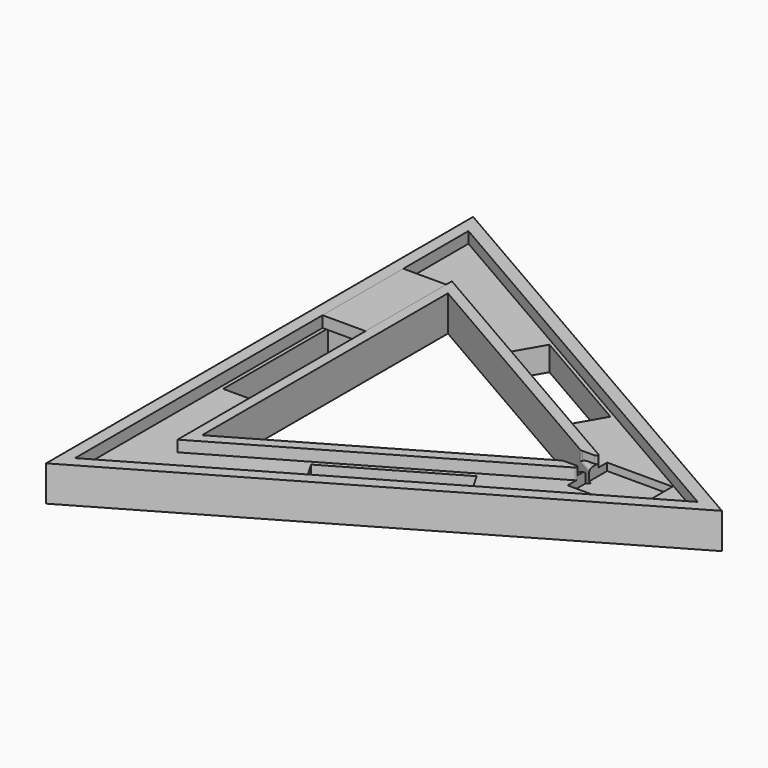
from build123d import *

# Parameters (mm, degrees)
BOX005_W               = 23
BOX005_H               = 54
BOX005_DEPTH           = 6
PRISM003_DEPTH         = 6
PRISM002_DEPTH         = 6
BOX004_W               = 10
BOX004_H               = 12
BOX004_DEPTH           = 4
BOX003_W               = 35
BOX003_H               = 26.5
BOX003_DEPTH           = 10
BOX002_W               = 70
BOX002_H               = 19
BOX002_DEPTH           = 19
BOX002_PLACEMENT_ANGLE = 30
BOX001_W               = 70
BOX001_H               = 19
BOX001_DEPTH           = 19
BOX001_PLACEMENT_ANGLE = 90
BOX_W                  = 70
BOX_H                  = 19
BOX_DEPTH              = 19
BOX_PLACEMENT_ANGLE    = 30
PRISM001_DEPTH         = 19
PRISM_DEPTH            = 19
FILLET_R               = 0.8
FILLET001_R            = 4
FILLET002_R            = 2


with BuildPart() as box005:
    # Box005 → Box005 (new body)
    with BuildSketch(Plane(origin=(-76, 34, 13), x_dir=(1, 0, 0), z_dir=(0, 0, 1))):
        with Locations((11.5, 27)):
            Rectangle(BOX005_W, BOX005_H)
    extrude(amount=BOX005_DEPTH)


with BuildPart() as prism003:
    # Prism003 → Prism003 (new body)
    with BuildSketch(Plane.XY.offset(13)):
        Polygon((106, 0), (-53, 91.798693), (-53, -91.798693), align=None)
    extrude(amount=PRISM003_DEPTH)


with BuildPart() as cut006:
    # Prism002 → Prism002 (new body)
    with BuildSketch(Plane.XY.offset(13)):
        Polygon((152, 0), (-76, 131.635861), (-76, -131.635861), align=None)
    extrude(amount=PRISM002_DEPTH)

    # Cut006: cut Prism003
    add(prism003.part, mode=Mode.SUBTRACT)


with BuildPart() as box004:
    # Box004 → Box004 (new body)
    with BuildSketch(Plane(origin=(84, -6, 15), x_dir=(1, 0, 0), z_dir=(0, 0, 1))):
        with Locations((5, 6)):
            Rectangle(BOX004_W, BOX004_H)
    extrude(amount=BOX004_DEPTH)


with BuildPart() as box003:
    # Box003 → Box003 (new body)
    with BuildSketch(Plane(origin=(93, -13.3, 9), x_dir=(1, 0, 0), z_dir=(0, 0, 1))):
        with Locations((17.5, 13.25)):
            Rectangle(BOX003_W, BOX003_H)
    extrude(amount=BOX003_DEPTH)


with BuildPart() as box002:
    # Box002 → Box002 (new body)
    with BuildSketch(Plane.XY):
        with Locations((35, 9.5)):
            Rectangle(BOX002_W, BOX002_H)
    extrude(amount=BOX002_DEPTH)


with BuildPart() as box002_1:
    # Box002 placement: moved
    add(box002.part.moved(Location((7, -82, 0))).rotate(Axis((7, -82, 0), (0, 0, 1)), BOX002_PLACEMENT_ANGLE))


with BuildPart() as box001:
    # Box001 → Box001 (new body)
    with BuildSketch(Plane.XY):
        with Locations((35, 9.5)):
            Rectangle(BOX001_W, BOX001_H)
    extrude(amount=BOX001_DEPTH)


with BuildPart() as box001_1:
    # Box001 placement: moved
    add(box001.part.moved(Location((-55, -35, 0))).rotate(Axis((-55, -35, 0), (0, 0, 1)), BOX001_PLACEMENT_ANGLE))


with BuildPart() as box:
    # Box → Box (new body)
    with BuildSketch(Plane.XY):
        with Locations((35, 9.5)):
            Rectangle(BOX_W, BOX_H)
    extrude(amount=BOX_DEPTH)


with BuildPart() as box_1:
    # Box placement: moved
    add(box.part.moved(Location((-2, 65, 0))).rotate(Axis((-2, 65, 0), (0, 0, -1)), BOX_PLACEMENT_ANGLE))


with BuildPart() as prism001:
    # Prism001 → Prism001 (new body)
    with BuildSketch(Plane.XY):
        Polygon((95, 0), (-47.5, 82.272413), (-47.5, -82.272413), align=None)
    extrude(amount=PRISM001_DEPTH)


with BuildPart() as fillet002:
    # Prism → Prism (new body)
    with BuildSketch(Plane.XY):
        Polygon((165, 0), (-82.5, 142.894192), (-82.5, -142.894192), align=None)
    extrude(amount=PRISM_DEPTH)

    # Cut: cut Prism001
    add(prism001.part, mode=Mode.SUBTRACT)

    # Cut001: cut Box
    add(box_1.part, mode=Mode.SUBTRACT)

    # Cut002: cut Box001
    add(box001_1.part, mode=Mode.SUBTRACT)

    # Cut003: cut Box002
    add(box002_1.part, mode=Mode.SUBTRACT)

    # Cut004: cut Box003
    add(box003.part, mode=Mode.SUBTRACT)

    # Cut005: cut Box004
    add(box004.part, mode=Mode.SUBTRACT)

    # Cut007: cut Cut006
    add(cut006.part, mode=Mode.SUBTRACT)

    # Fillet
    fillet_edges = [fillet002.edges().sort_by_distance(p)[0] for p in [
        (93, -6, 17),
        (93, -7.505553, 16),
        (93, 6, 17),
        (93, 7.505553, 16),
    ]]
    fillet(fillet_edges, radius=FILLET_R)

    # Fillet001
    fillet001_edges = [fillet002.edges().sort_by_distance(p)[0] for p in [
        (84.607695, 6, 17),
        (84.607695, -6, 17),
    ]]
    fillet(fillet001_edges, radius=FILLET001_R)

    # Fillet002
    fillet002_edges = [fillet002.edges().sort_by_distance(p)[0] for p in [
        (88.803848, 3.57735, 15),
        (88.803848, -3.57735, 15),
    ]]
    fillet(fillet002_edges, radius=FILLET002_R)


solid = Compound([box005.part, fillet002.part])
